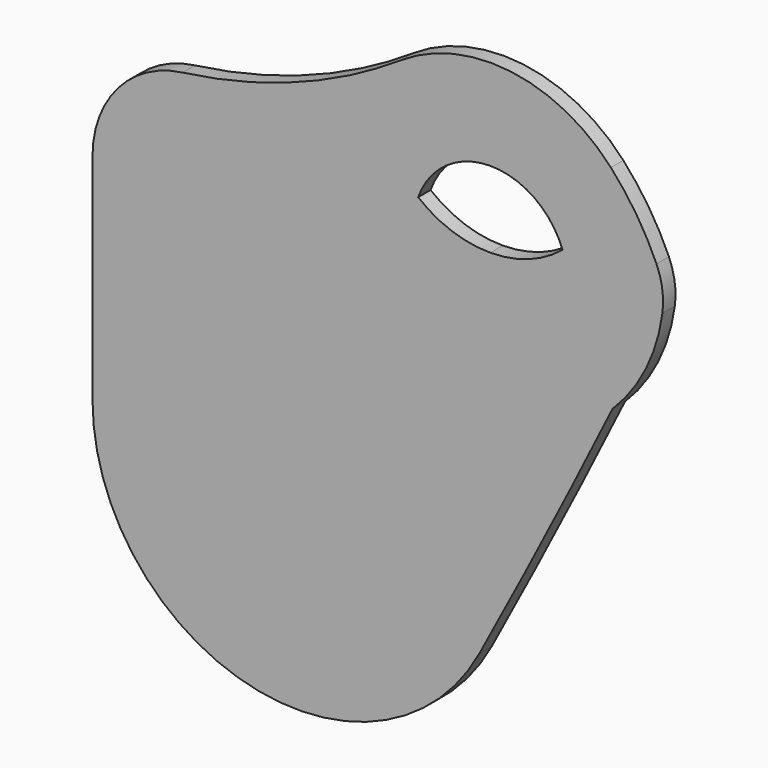
from build123d import *

# Parameters (mm, degrees)
F1_DEPTH = 3
F2_DEPTH = 25
F3_R     = 20
F4_R     = 100
F5_R     = 15


with BuildPart() as f1:
    # F0 (on Front) → F1 (new body)
    with BuildSketch(Plane.XZ):
        with BuildLine():
            ThreePointArc((-119.2295857728, 16.5976797057), (-89.2269882152, -21.8866064143), (-44.5863344816, -2.1785326218))
            ThreePointArc((-44.5863344816, -2.1785326218), (-31.5003837254, 22.7075657451), (-18.8527258188, 47.819251244))
            ThreePointArc((-18.8527258187, 47.819251244), (-11.5073907558, 58.7139707042), (-8.9261215756, 71.5975225717))
            Line((-8.9261215756, 71.5975225717), (-11.67442069, 71.5975225717))
            Line((-11.67442069, 71.5975225717), (-11.67442069, 74.0203762137))
            ThreePointArc((-11.67442069, 74.0203762137), (-14.431706638, 81.8781100982), (-19.1607128584, 88.7325325952))
            ThreePointArc((-19.1607128584, 88.7325325952), (-48.5320541227, 98.3962580043), (-71.9061774941, 78.1548738354))
            Line((-71.9061774941, 78.1548738354), (-107.2845857728, 78.1548738354))
            Line((-107.2845857728, 78.1548738354), (-119.2295857728, 78.1548738354))
            Line((-119.2295857728, 78.1548738354), (-119.2295857728, 66.2098738354))
            Line((-119.2295857728, 66.2098738354), (-119.2295857728, 16.5976797057))
        make_face()
        with BuildLine():
            ThreePointArc((-26.6928125913, 79.0930187933), (-24.6315082315, 75.5227380173), (-23.3711215756, 71.597523888))
            Line((-23.3711215756, 71.597523888), (-20.8711215756, 71.5975236602))
            ThreePointArc((-20.8711215756, 71.5975236602), (-22.8939959961, 62.4935676044), (-28.5819229469, 55.1029300277))
            ThreePointArc((-28.5819229469, 55.1029300277), (-41.6104278008, 29.1671780434), (-55.1096433175, 3.4732809051))
            ThreePointArc((-55.1096433175, 3.4732809051), (-86.3130475025, -10.3024804429), (-107.2845857728, 16.5976797057))
            Line((-107.2845857728, 16.5976797057), (-107.2845857728, 66.2098738354))
            Line((-107.2845857728, 66.2098738354), (-104.7845857728, 66.2098738354))
            Line((-104.7845857728, 66.2098738354), (-68.5864427672, 66.2098738354))
            Line((-68.5864427672, 66.2098738354), (-63.1803487139, 66.2098738354))
            ThreePointArc((-63.1803487139, 66.2098738354), (-63.6941147242, 68.8812286524), (-63.8664115811, 71.5960777945))
            Line((-63.8664115811, 71.5960777945), (-61.3664115868, 71.5962461646))
            ThreePointArc((-61.3664115868, 71.5962461646), (-46.4685424734, 86.625019162), (-26.6928125913, 79.0930187933))
        make_face(mode=Mode.SUBTRACT)
        with BuildLine():
            ThreePointArc((-32.7025071715, 52.3956462756), (-51.243606048, 52.0172813271), (-63.1803487139, 66.2098738354))
            Line((-63.1803487139, 66.2098738354), (-68.5864427672, 66.2098738354))
            Line((-68.5864427672, 66.2098738354), (-104.7845857728, 66.2098738354))
            Line((-104.7845857728, 66.2098738354), (-104.7845857728, 16.5976797057))
            ThreePointArc((-104.7845857728, 16.5976797057), (-85.7031813006, -7.8780087034), (-57.3120938901, 4.6561636023))
            ThreePointArc((-57.3120938901, 4.6561636023), (-44.8056231456, 28.4219407394), (-32.7025071715, 52.3956462756))
        make_face()
        with BuildLine():
            ThreePointArc((-61.3664115868, 71.5962461646), (-42.368127741, 52.5998806027), (-23.3711215756, 71.597523888))
            Line((-23.3711215756, 71.597523888), (-28.5062876117, 71.7030383349))
            ThreePointArc((-28.5062876117, 71.7030383349), (-35.0280474509, 67.9936357913), (-42.4162418185, 66.6868830916))
            ThreePointArc((-42.4162418185, 66.6868830916), (-49.8149115034, 67.9342855665), (-56.3664115867, 71.5913571683))
            Line((-56.3664115866, 71.5913571683), (-61.3664115868, 71.5962461646))
        make_face()
        with BuildLine():
            ThreePointArc((-55.1096433175, 3.4732809051), (-41.6104278008, 29.1671780434), (-28.5819229469, 55.1029300277))
            ThreePointArc((-28.5819229469, 55.1029300277), (-30.5643455059, 53.6307678626), (-32.7025071715, 52.3956462756))
            ThreePointArc((-32.7025071715, 52.3956462756), (-44.8056231456, 28.4219407394), (-57.3120938901, 4.6561636023))
            ThreePointArc((-57.3120938901, 4.6561636023), (-85.7031813006, -7.8780087034), (-104.7845857728, 16.5976797057))
            Line((-104.7845857728, 16.5976797057), (-104.7845857728, 66.2098738354))
            Line((-104.7845857728, 66.2098738354), (-107.2845857728, 66.2098738354))
            Line((-107.2845857728, 66.2098738354), (-107.2845857728, 16.5976797057))
            ThreePointArc((-107.2845857728, 16.5976797057), (-86.3130475025, -10.3024804429), (-55.1096433175, 3.4732809051))
        make_face()
        with BuildLine():
            ThreePointArc((-42.4162418185, 66.6868830916), (-35.0280474509, 67.9936357913), (-28.5062876117, 71.7030383349))
            ThreePointArc((-28.5062876117, 71.7030383349), (-42.4756351565, 81.447422187), (-56.3664115866, 71.5913571682))
            ThreePointArc((-56.3664115867, 71.5913571683), (-49.8149115034, 67.9342855665), (-42.4162418185, 66.6868830916))
        make_face()
        with BuildLine():
            Line((-28.5062876117, 71.7030383349), (-23.3711215756, 71.597523888))
            ThreePointArc((-23.3711215756, 71.597523888), (-24.6315082315, 75.5227380173), (-26.6928125913, 79.0930187933))
            ThreePointArc((-26.6928125913, 79.0930187933), (-46.4685424734, 86.625019162), (-61.3664115868, 71.5962461646))
            Line((-61.3664115868, 71.5962461646), (-56.3664115866, 71.5913571683))
            ThreePointArc((-56.3664115866, 71.5913571682), (-42.4756351565, 81.447422187), (-28.5062876117, 71.7030383349))
        make_face()
        with BuildLine():
            Line((-20.8711215756, 71.5975236602), (-23.3711215756, 71.597523888))
            ThreePointArc((-23.3711215756, 71.597523888), (-42.368127741, 52.5998806027), (-61.3664115868, 71.5962461646))
            Line((-61.3664115868, 71.5962461646), (-63.8664115811, 71.5960777945))
            ThreePointArc((-63.8664115811, 71.5960777945), (-63.6941147242, 68.8812286524), (-63.1803487139, 66.2098738354))
            ThreePointArc((-63.1803487139, 66.2098738354), (-51.243606048, 52.0172813271), (-32.7025071715, 52.3956462756))
            ThreePointArc((-32.7025071715, 52.3956462756), (-30.5643455059, 53.6307678626), (-28.5819229469, 55.1029300277))
            ThreePointArc((-28.5819229469, 55.1029300277), (-22.8939959961, 62.4935676044), (-20.8711215756, 71.5975236602))
        make_face()
        with BuildLine():
            Line((-11.67442069, 71.5975225717), (-8.9261215756, 71.5975225717))
            ThreePointArc((-8.9261215756, 71.5975225717), (-13.1797411051, 80.6808937541), (-19.1607128584, 88.7325325952))
            ThreePointArc((-19.1607128584, 88.7325325952), (-14.431706638, 81.8781100982), (-11.67442069, 74.0203762137))
            Line((-11.67442069, 74.0203762137), (-11.67442069, 71.5975225717))
        make_face()
    extrude(amount=F1_DEPTH)

    # F0 (on Front) → F2 (cut)
    with BuildSketch(Plane.XZ):
        with BuildLine():
            ThreePointArc((-42.4162418185, 66.6868830916), (-35.0280474509, 67.9936357913), (-28.5062876117, 71.7030383349))
            ThreePointArc((-28.5062876117, 71.7030383349), (-42.4756351565, 81.447422187), (-56.3664115866, 71.5913571682))
            ThreePointArc((-56.3664115867, 71.5913571683), (-49.8149115034, 67.9342855665), (-42.4162418185, 66.6868830916))
        make_face()
    extrude(amount=F2_DEPTH, mode=Mode.SUBTRACT)

    # F3
    f3_edges = [f1.edges().sort_by_distance(p)[0] for p in [
        (-119.229586, -1.5, 78.154874),
    ]]
    fillet(f3_edges, radius=F3_R)

    # F4
    f4_edges = [f1.edges().sort_by_distance(p)[0] for p in [
        (-71.906177, -1.5, 78.154874),
    ]]
    fillet(f4_edges, radius=F4_R)

    # F5
    f5_edges = [f1.edges().sort_by_distance(p)[0] for p in [
        (-8.926122, -1.5, 71.597523),
    ]]
    fillet(f5_edges, radius=F5_R)


solid = f1.part
